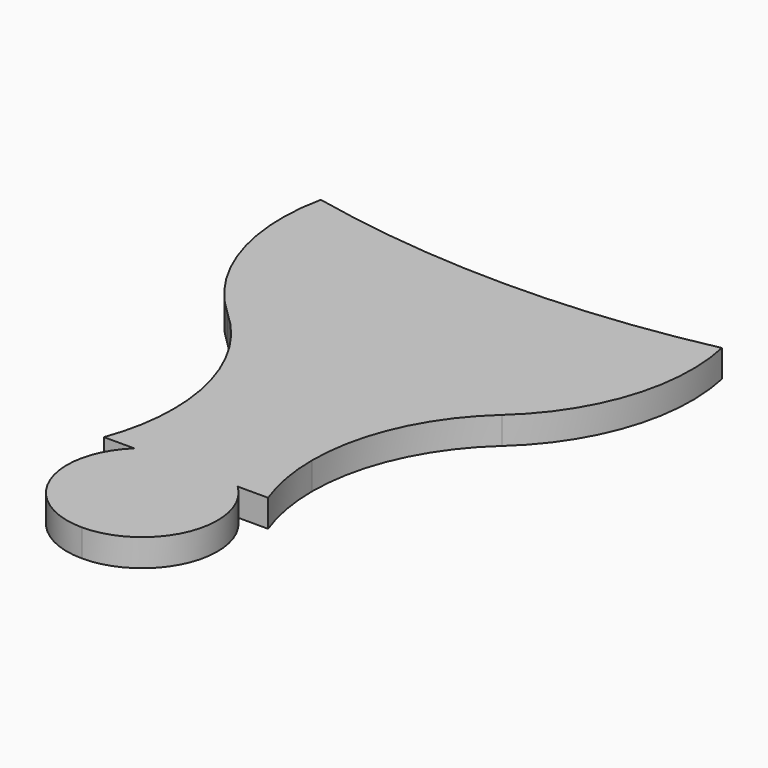
from build123d import *

# Parameters (mm, degrees)
F1_DEPTH = 1


with BuildPart() as f1:
    # F0 (on Top) → F1 (new body)
    with BuildSketch(Plane.XY):
        with BuildLine():
            Line((0, -18.5), (0, -13.75))
            Line((0, -13.75), (-1.8874586088, -13.75))
            ThreePointArc((-1.8874586088, -13.75), (-2.5556310375, -16.7655048006), (0, -18.5))
        make_face()
        with BuildLine():
            ThreePointArc((-5.0173197948, -5.5746302189), (-2.6870312018, -7.0021327694), (0, -7.5))
            Line((0, -7.5), (0, 0))
            Line((0, 0), (0, 0.8))
            ThreePointArc((0, 0.8), (-3.6867098623, 0.9947105975), (-7.3324002115, 1.5766759777))
            ThreePointArc((-7.3324002115, 1.5766759777), (-7.1354180773, -2.3099369824), (-5.0173197948, -5.5746302189))
        make_face()
        with BuildLine():
            Line((0, -13), (0, -7.5))
            ThreePointArc((0, -7.5), (-2.6870312018, -7.0021327694), (-5.0173197948, -5.5746302189))
            ThreePointArc((-5.0173197948, -5.5746302189), (-3.183366025, -8.0980228642), (-2.5346395668, -11.1492604581))
            ThreePointArc((-2.5346395668, -11.1492604581), (-2.6518962843, -12.4702834043), (-3, -13.75))
            Line((-3, -13.75), (-1.8874586088, -13.75))
            ThreePointArc((-1.8874586088, -13.75), (-1.0155048006, -13.1943689625), (0, -13))
        make_face()
        with BuildLine():
            Line((0, -13.75), (0, -13))
            ThreePointArc((0, -13), (-1.0155048006, -13.1943689625), (-1.8874586088, -13.75))
            Line((-1.8874586088, -13.75), (0, -13.75))
        make_face()
    extrude(amount=F1_DEPTH)

    # F2: F1 across plane


with BuildPart() as f1_1:
    add(f1.part)
    add(f1.part.mirror(Plane.YZ))


solid = f1_1.part
